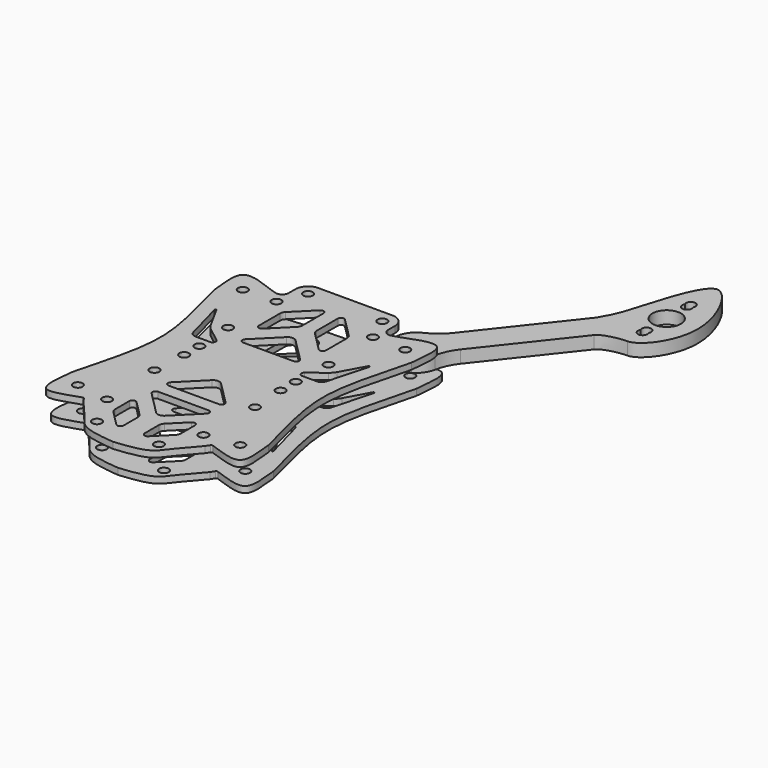
from build123d import *

# Parameters (mm, degrees)
F0_R     = 1.5
F1_DEPTH = 2
F2_R     = 1.5
F2_R_2   = 4.5
F3_DEPTH = 4
F5_START = -8
F4_R     = 1.5
F5_DEPTH = 2


with BuildPart() as f1:
    # F0 (on Top) → F1 (new body)
    with BuildSketch(Plane.XY):
        with BuildLine():
            Line((-18.3375635981, 31.6484452923), (-20.2031719051, 32.2218290431))
            add(Edge.make_bspline(
                [(-20.2031719051, 32.2218290431), (-23.587653786, 33.4649229243), (-33.8342020332, 38.0349181958), (-31.3543078417, 27.1598680228), (-31.2000553163, 23.5576178706)],
                knots=[0, 0, 0, 0, 0.5, 1, 1, 1, 1], degree=3))
            add(Edge.make_bspline(
                [(-31.2000553163, 23.5576178706), (-28.3736046302, 12.3604227018), (-23.0296225912, -4.7315553567), (-28.3736046302, -21.8235334151), (-31.2000553163, -33.020728584)],
                knots=[0, 0, 0, 0, 0.5, 1, 1, 1, 1], degree=3))
            add(Edge.make_bspline(
                [(-31.2000553163, -33.020728584), (-31.5236495663, -37.2076907408), (-33.4017812436, -47.0918338202), (-24.4280401499, -43.0389873741), (-20.6060443876, -41.8286181711)],
                knots=[0, 0, 0, 0, 0.5050655509, 1, 1, 1, 1], degree=3))
            Line((-20.6060443876, -41.8286181711), (-20.5803608331, -41.8194585175))
            ThreePointArc((-20.5803608331, -41.8194585175), (-20.2490943869, -41.8178274529), (-19.9895147498, -42.023639335))
            Line((-19.9895147498, -42.023639335), (-19.2511072473, -43.1941983527))
            add(Edge.make_bspline(
                [(-19.2511072473, -43.1941983527), (-17.3005706476, -45.3147992864), (-13.734975541, -49.537223912), (-10.2660770178, -54.6031397518), (-3.7194709349, -55.2509907064), (0, -55.6397614479)],
                knots=[0, 0, 0, 0, 0.3439625189, 0.625548145, 1, 1, 1, 1], degree=3))
            add(Edge.make_bspline(
                [(19.2511072473, -43.1941983527), (17.1900322363, -45.4409226451), (13.7763694298, -49.4899938476), (10.2513818536, -54.6199068055), (3.7194709349, -55.2509907064), (0, -55.6397614479)],
                knots=[0, 0, 0, 0, 0.3439625189, 0.625548145, 1, 1, 1, 1], degree=3))
            Line((19.2511072473, -43.1941983527), (19.9895147498, -42.023639335))
            ThreePointArc((19.9895147498, -42.023639335), (20.2490943869, -41.8178274529), (20.5803608331, -41.8194585175))
            Line((20.5803608331, -41.8194585175), (20.6060443876, -41.8286181711))
            add(Edge.make_bspline(
                [(31.2000553163, -33.020728584), (31.5241738424, -37.2110513509), (33.3984468888, -47.0857192502), (24.4340716378, -43.0477440686), (20.6060443876, -41.8286181711)],
                knots=[0, 0, 0, 0, 0.5050655509, 1, 1, 1, 1], degree=3))
            add(Edge.make_bspline(
                [(31.2000553163, 23.5576178706), (28.3736046302, 12.3604227018), (23.0296225912, -4.7315553567), (28.3736046302, -21.8235334151), (31.2000553163, -33.020728584)],
                knots=[0, 0, 0, 0, 0.5, 1, 1, 1, 1], degree=3))
            add(Edge.make_bspline(
                [(20.2031719051, 32.2218290431), (23.587653786, 33.4649229243), (33.8342020332, 38.0349181958), (31.3543078417, 27.1598680228), (31.2000553163, 23.5576178706)],
                knots=[0, 0, 0, 0, 0.5, 1, 1, 1, 1], degree=3))
            Line((20.2031719051, 32.2218290431), (18.3375635981, 31.6484452923))
            ThreePointArc((18.3375635981, 31.6484452923), (16.5615403238, 31.9515997489), (15.75, 33.5601903115))
            Line((15.75, 33.5601903115), (15.75, 36.2800180018))
            ThreePointArc((15.75, 36.2800180018), (14.5784271247, 39.1084451265), (11.75, 40.2800180018))
            Line((11.75, 40.2800180018), (0, 40.2800180018))
            Line((0, 40.2800180018), (-11.75, 40.2800180018))
            ThreePointArc((-11.75, 40.2800180018), (-14.5784271247, 39.1084451265), (-15.75, 36.2800180018))
            Line((-15.75, 36.2800180018), (-15.75, 33.5601903115))
            ThreePointArc((-15.75, 33.5601903115), (-16.5615403238, 31.9515997489), (-18.3375635981, 31.6484452923))
        make_face()
        with Locations((-25.7016136107, -37.3528341702)):
            Circle(F0_R, mode=Mode.SUBTRACT)
        with Locations((-9.8013905808, -49.6397614479)):
            Circle(F0_R, mode=Mode.SUBTRACT)
        with Locations((-15.25, -38.8460222539)):
            Circle(F0_R, mode=Mode.SUBTRACT)
        with BuildLine():
            ThreePointArc((-10.4, -36.1025408883), (-9.7826834324, -35.1786613557), (-8.6928932188, -35.3954341071))
            Line((-8.6928932188, -35.3954341071), (-3.9147186258, -40.1736087001))
            ThreePointArc((-3.9147186258, -40.1736087001), (-3.4811731231, -40.8224553978), (-3.3289321881, -41.5878222625))
            Line((-3.3289321881, -41.5878222625), (-3.3289321881, -47.2255478855))
            ThreePointArc((-3.3289321881, -47.2255478855), (-3.9462487558, -48.149427418), (-5.0360389693, -47.9326546667))
            Line((-5.0360389693, -47.9326546667), (-9.8142135624, -43.1544800737))
            ThreePointArc((-9.8142135624, -43.1544800737), (-10.247759065, -42.505633376), (-10.4, -41.7402665113))
            Line((-10.4, -41.7402665113), (-10.4, -36.1025408883))
        make_face(mode=Mode.SUBTRACT)
        with Locations((-15.898, -19.2865553567)):
            Circle(F0_R, mode=Mode.SUBTRACT)
        with Locations((-15.25, -8.3460222539)):
            Circle(F0_R, mode=Mode.SUBTRACT)
        with Locations((9.8013905808, -49.6397614479)):
            Circle(F0_R, mode=Mode.SUBTRACT)
        with BuildLine():
            Line((3.9147186258, -40.1736087001), (8.6928932188, -35.3954341071))
            ThreePointArc((8.6928932188, -35.3954341071), (9.7826834324, -35.1786613557), (10.4, -36.1025408883))
            Line((10.4, -36.1025408883), (10.4, -41.7402665113))
            ThreePointArc((10.4, -41.7402665113), (10.247759065, -42.505633376), (9.8142135624, -43.1544800737))
            Line((9.8142135624, -43.1544800737), (5.0360389693, -47.9326546667))
            ThreePointArc((5.0360389693, -47.9326546667), (3.9462487558, -48.149427418), (3.3289321881, -47.2255478855))
            Line((3.3289321881, -47.2255478855), (3.3289321881, -41.5878222625))
            ThreePointArc((3.3289321881, -41.5878222625), (3.4811731231, -40.8224553978), (3.9147186258, -40.1736087001))
        make_face(mode=Mode.SUBTRACT)
        with BuildLine():
            Line((-7.9857864376, -27.752749883), (0, -27.752749883))
            Line((0, -27.752749883), (7.9857864376, -27.752749883))
            ThreePointArc((7.9857864376, -27.752749883), (8.9096659701, -28.3700664506), (8.6928932188, -29.4598566642))
            Line((8.6928932188, -29.4598566642), (1.4142135624, -36.7385363206))
            ThreePointArc((1.4142135624, -36.7385363206), (0, -37.3243227583), (-1.4142135624, -36.7385363206))
            Line((-1.4142135624, -36.7385363206), (-8.6928932188, -29.4598566642))
            ThreePointArc((-8.6928932188, -29.4598566642), (-8.9096659701, -28.3700664506), (-7.9857864376, -27.752749883))
        make_face(mode=Mode.SUBTRACT)
        with Locations((15.25, -38.8460222539)):
            Circle(F0_R, mode=Mode.SUBTRACT)
        with Locations((25.7016136107, -37.3528341702)):
            Circle(F0_R, mode=Mode.SUBTRACT)
        with BuildLine():
            Line((7.9857864376, -23.5960222539), (0, -23.5960222539))
            Line((0, -23.5960222539), (-7.9857864376, -23.5960222539))
            ThreePointArc((-7.9857864376, -23.5960222539), (-8.9096659701, -22.9787056862), (-8.6928932188, -21.8889154727))
            Line((-8.6928932188, -21.8889154727), (-1.4142135624, -14.6102358162))
            ThreePointArc((-1.4142135624, -14.6102358162), (0, -14.0244493786), (1.4142135624, -14.6102358162))
            Line((1.4142135624, -14.6102358162), (8.6928932188, -21.8889154727))
            ThreePointArc((8.6928932188, -21.8889154727), (8.9096659701, -22.9787056862), (7.9857864376, -23.5960222539))
        make_face(mode=Mode.SUBTRACT)
        with Locations((15.898, -19.2865553567)):
            Circle(F0_R, mode=Mode.SUBTRACT)
        with Locations((15.25, -8.3460222539)):
            Circle(F0_R, mode=Mode.SUBTRACT)
        with BuildLine():
            ThreePointArc((-13.9443706064, 2.8309352999), (-13.6076066332, 1.7163427022), (-14.5542998026, 1.0384793859))
            Line((-14.5542998026, 1.0384793859), (-19.1284531279, 1.0384793859))
            ThreePointArc((-19.1284531279, 1.0384793859), (-20.3441756356, 1.4503928693), (-21.0591256503, 2.5164606016))
            Line((-21.0591256503, 2.5164606016), (-24.4749915331, 15.1499492776))
            ThreePointArc((-24.4749915331, 15.1499492776), (-24.327285987, 15.4470069327), (-24.0147040959, 15.3358640511))
            Line((-24.0147040959, 15.3358640511), (-19.9682088279, 7.9931160539))
            ThreePointArc((-19.9682088279, 7.9931160539), (-19.3833896778, 7.1500353535), (-18.6387873707, 6.4440849942))
            Line((-18.6387873707, 6.4440849942), (-13.9443706064, 2.8309352999))
        make_face(mode=Mode.SUBTRACT)
        with Locations((-15.25, -2.3460222539)):
            Circle(F0_R, mode=Mode.SUBTRACT)
        with Locations((-15.898, 9.8234446433)):
            Circle(F0_R, mode=Mode.SUBTRACT)
        with Locations((-25.7016136107, 27.8897234569)):
            Circle(F0_R, mode=Mode.SUBTRACT)
        with Locations((-15.25, 28.1539777461)):
            Circle(F0_R, mode=Mode.SUBTRACT)
        with BuildLine():
            Line((-2.2476087324, 30.5143016633), (-2.2476087324, 22.1581229493))
            ThreePointArc((-2.2476087324, 22.1581229493), (-2.3998496674, 21.3927560845), (-2.8333951701, 20.7439093869))
            Line((-2.8333951701, 20.7439093869), (-8.8994949366, 14.6778096204))
            ThreePointArc((-8.8994949366, 14.6778096204), (-9.9892851502, 14.461036869), (-10.6066017178, 15.3849164015))
            Line((-10.6066017178, 15.3849164015), (-10.6066017178, 23.7410951155))
            ThreePointArc((-10.6066017178, 23.7410951155), (-10.4543607828, 24.5064619803), (-10.0208152802, 25.1553086779))
            Line((-10.0208152802, 25.1553086779), (-3.9547155136, 31.2214084445))
            ThreePointArc((-3.9547155136, 31.2214084445), (-2.8649253001, 31.4381811958), (-2.2476087324, 30.5143016633))
        make_face(mode=Mode.SUBTRACT)
        with Locations((-11.75, 36.2800180018)):
            Circle(F0_R, mode=Mode.SUBTRACT)
        with Locations((15.25, -2.3460222539)):
            Circle(F0_R, mode=Mode.SUBTRACT)
        with BuildLine():
            Line((7.9814822674, 5.8881554157), (-7.9814822674, 5.8881554157))
            ThreePointArc((-7.9814822674, 5.8881554157), (-8.9053617999, 6.5054719833), (-8.6885890486, 7.5952621968))
            Line((-8.6885890486, 7.5952621968), (-1.4142135624, 14.869637683))
            ThreePointArc((-1.4142135624, 14.869637683), (0, 15.4554241207), (1.4142135624, 14.869637683))
            Line((1.4142135624, 14.869637683), (8.6885890486, 7.5952621968))
            ThreePointArc((8.6885890486, 7.5952621968), (8.9053617999, 6.5054719833), (7.9814822674, 5.8881554157))
        make_face(mode=Mode.SUBTRACT)
        with Locations((15.898, 9.8234446433)):
            Circle(F0_R, mode=Mode.SUBTRACT)
        with BuildLine():
            ThreePointArc((18.6387873707, 6.4440849942), (19.3833896778, 7.1500353535), (19.9682088279, 7.9931160539))
            Line((19.9682088279, 7.9931160539), (24.0146508596, 15.335767449))
            ThreePointArc((24.0146508596, 15.335767449), (24.3272342116, 15.4469097405), (24.4749374744, 15.1498496337))
            Line((24.4749374744, 15.1498496337), (21.0589210791, 2.5164362672))
            ThreePointArc((21.0589210791, 2.5164362672), (20.3439676359, 1.4503852077), (19.1282551365, 1.0384793859))
            Line((19.1282551365, 1.0384793859), (14.5542998026, 1.0384793859))
            ThreePointArc((14.5542998026, 1.0384793859), (13.6076066332, 1.7163427022), (13.9443706064, 2.8309352999))
            Line((13.9443706064, 2.8309352999), (18.6387873707, 6.4440849942))
        make_face(mode=Mode.SUBTRACT)
        with BuildLine():
            ThreePointArc((2.8333951701, 20.7439093869), (2.3998496674, 21.3927560845), (2.2476087324, 22.1581229493))
            Line((2.2476087324, 22.1581229493), (2.2476087324, 30.5143016633))
            ThreePointArc((2.2476087324, 30.5143016633), (2.8649253001, 31.4381811958), (3.9547155136, 31.2214084445))
            Line((3.9547155136, 31.2214084445), (10.0208152802, 25.1553086779))
            ThreePointArc((10.0208152802, 25.1553086779), (10.4543607828, 24.5064619803), (10.6066017178, 23.7410951155))
            Line((10.6066017178, 23.7410951155), (10.6066017178, 15.3849164015))
            ThreePointArc((10.6066017178, 15.3849164015), (9.9892851502, 14.461036869), (8.8994949366, 14.6778096204))
            Line((8.8994949366, 14.6778096204), (2.8333951701, 20.7439093869))
        make_face(mode=Mode.SUBTRACT)
        with Locations((15.25, 28.1539777461)):
            Circle(F0_R, mode=Mode.SUBTRACT)
        with Locations((11.75, 36.2800180018)):
            Circle(F0_R, mode=Mode.SUBTRACT)
        with Locations((25.7016136107, 27.8897234569)):
            Circle(F0_R, mode=Mode.SUBTRACT)
    extrude(amount=F1_DEPTH)


with BuildPart() as f3:
    # F2 (on Top) → F3 (new body)
    with BuildSketch(Plane.XY):
        with BuildLine():
            Line((49.3583674152, 73.8140501592), (26.8181013788, 45.2052509591))
            ThreePointArc((26.8181013788, 45.2052509591), (24.254270503, 42.6553954717), (21.1547401179, 40.7931647776))
            ThreePointArc((21.1547401179, 40.7931647776), (18.0437992431, 38.0628380969), (17.0190123837, 34.0525452394))
            ThreePointArc((17.0190123837, 34.0525452394), (16.9905388719, 32.6491592536), (16.7658418727, 31.2635856451))
            Line((16.7658418727, 31.2635856451), (14.2352850325, 20.504866441))
            ThreePointArc((14.2352850325, 20.504866441), (12.3636828047, 19.1083964616), (11.4439259975, 16.9619876659))
            Line((11.4439259975, 16.9619876659), (-1.6758141935, 6.2685870044))
            Line((-1.6758141935, 6.2685870044), (-1.6758288934, 1.7685870045))
            Line((-1.6758288934, 1.7685870045), (2.8241711066, 1.7685870045))
            Line((2.8241711066, 1.7685870045), (17.561505627, 12.1420764427))
            ThreePointArc((17.561505627, 12.1420764427), (19.4331078547, 13.5385464221), (20.3528646619, 15.6849552178))
            Line((20.3528646619, 15.6849552178), (23.3511959485, 24.6972793509))
            ThreePointArc((23.3511959485, 24.6972793509), (24.5139651744, 26.6077796469), (26.3933389363, 27.8202143531))
            ThreePointArc((26.3933389363, 27.8202143531), (29.3386172171, 29.8623916577), (30.8870933694, 33.0946314229))
            ThreePointArc((30.8870933694, 33.0946314229), (31.9736328696, 36.5131882016), (33.8407471455, 39.5760272139))
            Line((33.8407471455, 39.5760272139), (54.7988120821, 66.176648095))
            add(Edge.make_bspline(
                [(63.3241711066, 68.7685870045), (60.5388507247, 68.7347128987), (56.0119728863, 67.7164291158), (54.7988120821, 66.176648095)],
                knots=[0, 0, 0, 0, 8.9106618052, 8.9106618052, 8.9106618052, 8.9106618052], degree=3))
            add(Edge.make_bspline(
                [(63.3241711066, 104.2685870045), (66.5443018079, 104.3200790882), (78.8624263071, 83.7541625293), (67.0375078917, 68.7372982502), (63.3241711066, 68.7685870045)],
                knots=[0, 0, 0, 0, 0.5246243631, 1, 1, 1, 1], degree=3))
            add(Edge.make_bspline(
                [(49.3583674152, 73.8140501592), (51.6408905387, 77.6045843959), (53.3628848788, 81.7812789281), (59.3639425933, 104.1901484132), (63.3241711066, 104.2685870045)],
                knots=[0, 0, 0, 0, 0.4174355545, 1, 1, 1, 1], degree=3))
        make_face()
        with Locations((15.8983953297, 16.3234714419)):
            Circle(F2_R, mode=Mode.SUBTRACT)
        with Locations((24.0102799017, 34.40208564)):
            Circle(F2_R, mode=Mode.SUBTRACT)
        with BuildLine():
            ThreePointArc((62.0251330009, 75.5185870045), (63.3241711066, 77.7685870045), (64.6232092123, 75.5185870045))
            ThreePointArc((64.6232092123, 75.5185870045), (63.3241711066, 73.2685870045), (62.0251330009, 75.5185870045))
        make_face(mode=Mode.SUBTRACT)
        with Locations((63.3241711066, 84.2685870045)):
            Circle(F2_R_2, mode=Mode.SUBTRACT)
        with BuildLine():
            ThreePointArc((62.0251330009, 93.0185870045), (63.3241711066, 95.2685870045), (64.6232092123, 93.0185870045))
            ThreePointArc((64.6232092123, 93.0185870045), (63.3241711066, 90.7685870045), (62.0251330009, 93.0185870045))
        make_face(mode=Mode.SUBTRACT)
    extrude(amount=-F3_DEPTH)


with BuildPart() as f5:
    # F4 (on Top) → F5 (new body)
    with BuildSketch(Plane.XY.offset(F5_START)):
        with BuildLine():
            add(Edge.make_bspline(
                [(-22.5301694532, 37.1075806708), (-15.7957788182, 37.6926555083), (-2.3269975481, 38.8628051832), (11.1417837219, 37.6926555083), (17.876174357, 37.1075806708)],
                knots=[0, 0, 0, 0, 0.5, 1, 1, 1, 1], degree=3))
            add(Edge.make_bspline(
                [(-22.5301694532, 37.1075806708), (-25.9146513341, 38.350674552), (-36.1611995813, 42.9206698236), (-33.6813053898, 32.0456196505), (-33.5270528644, 28.4433694984)],
                knots=[0, 0, 0, 0, 0.5, 1, 1, 1, 1], degree=3))
            add(Edge.make_bspline(
                [(-33.5270528644, 28.4433694984), (-30.7006021783, 17.2461743295), (-25.3566201393, 0.1541962711), (-30.7006021783, -16.9377817874), (-33.5270528644, -28.1349769563)],
                knots=[0, 0, 0, 0, 0.5, 1, 1, 1, 1], degree=3))
            add(Edge.make_bspline(
                [(-33.5270528644, -28.1349769563), (-33.8506471144, -32.321939113), (-35.7287787917, -42.2060821925), (-26.755037698, -38.1532357463), (-22.9330419357, -36.9428665433)],
                knots=[0, 0, 0, 0, 0.5050655509, 1, 1, 1, 1], degree=3))
            Line((-22.9330419357, -36.9428665433), (-22.9073583812, -36.9337068897))
            ThreePointArc((-22.9073583812, -36.9337068897), (-22.576091935, -36.9320758252), (-22.3165122979, -37.1378877072))
            Line((-22.3165122979, -37.1378877072), (-21.5781047954, -38.3084467249))
            add(Edge.make_bspline(
                [(-21.5781047954, -38.3084467249), (-19.6275681957, -40.4290476586), (-16.0619730891, -44.6514722843), (-12.593074566, -49.7173881241), (-6.046468483, -50.3652390786), (-2.3269975481, -50.7540098202)],
                knots=[0, 0, 0, 0, 0.3439625189, 0.625548145, 1, 1, 1, 1], degree=3))
            add(Edge.make_bspline(
                [(16.9241096992, -38.3084467249), (14.8630346882, -40.5551710173), (11.4493718817, -44.6042422199), (7.9243843055, -49.7341551778), (1.3924733868, -50.3652390786), (-2.3269975481, -50.7540098202)],
                knots=[0, 0, 0, 0, 0.3439625189, 0.625548145, 1, 1, 1, 1], degree=3))
            Line((16.9241096992, -38.3084467249), (17.6625172017, -37.1378877072))
            ThreePointArc((17.6625172017, -37.1378877072), (17.9220968388, -36.9320758252), (18.253363285, -36.9337068897))
            Line((18.253363285, -36.9337068897), (18.2790468395, -36.9428665433))
            add(Edge.make_bspline(
                [(28.8730577682, -28.1349769563), (29.1971762943, -32.3252997231), (31.0714493407, -42.1999676224), (22.1070740897, -38.1619924409), (18.2790468395, -36.9428665433)],
                knots=[0, 0, 0, 0, 0.5050655509, 1, 1, 1, 1], degree=3))
            add(Edge.make_bspline(
                [(28.8730577682, 28.4433694984), (26.0466070821, 17.2461743295), (20.7026250431, 0.1541962711), (26.0466070821, -16.9377817874), (28.8730577682, -28.1349769563)],
                knots=[0, 0, 0, 0, 0.5, 1, 1, 1, 1], degree=3))
            add(Edge.make_bspline(
                [(17.876174357, 37.1075806708), (21.2606562379, 38.350674552), (31.507204485, 42.9206698236), (29.0273102936, 32.0456196505), (28.8730577682, 28.4433694984)],
                knots=[0, 0, 0, 0, 0.5, 1, 1, 1, 1], degree=3))
        make_face()
        with Locations((-28.0286111588, -32.4670825425)):
            Circle(F4_R, mode=Mode.SUBTRACT)
        with Locations((-12.1283881289, -44.7540098202)):
            Circle(F4_R, mode=Mode.SUBTRACT)
        with BuildLine():
            ThreePointArc((-12.7269975481, -31.2167892605), (-12.1096809805, -30.292909728), (-11.0198907669, -30.5096824793))
            Line((-11.0198907669, -30.5096824793), (-6.2417161739, -35.2878570724))
            ThreePointArc((-6.2417161739, -35.2878570724), (-5.8081706712, -35.93670377), (-5.6559297362, -36.7020706347))
            Line((-5.6559297362, -36.7020706347), (-5.6559297362, -42.3397962578))
            ThreePointArc((-5.6559297362, -42.3397962578), (-6.2732463039, -43.2636757903), (-7.3630365174, -43.046903039))
            Line((-7.3630365174, -43.046903039), (-12.1412111105, -38.2687284459))
            ThreePointArc((-12.1412111105, -38.2687284459), (-12.5747566131, -37.6198817483), (-12.7269975481, -36.8545148836))
            Line((-12.7269975481, -36.8545148836), (-12.7269975481, -31.2167892605))
        make_face(mode=Mode.SUBTRACT)
        with BuildLine():
            ThreePointArc((-26.341701644, -19.9132231368), (-26.6542835351, -20.0243660183), (-26.8019890812, -19.7273083632))
            Line((-26.8019890812, -19.7273083632), (-23.3861231984, -7.0938196872))
            ThreePointArc((-23.3861231984, -7.0938196872), (-22.6711731837, -6.0277519549), (-21.455450676, -5.6158384715))
            Line((-21.455450676, -5.6158384715), (-16.8812973507, -5.6158384715))
            ThreePointArc((-16.8812973507, -5.6158384715), (-15.9346041813, -6.2937017878), (-16.2713681545, -7.4082943855))
            Line((-16.2713681545, -7.4082943855), (-20.9657849188, -11.0214440799))
            ThreePointArc((-20.9657849188, -11.0214440799), (-21.7103872259, -11.7273944392), (-22.295206376, -12.5704751396))
            Line((-22.295206376, -12.5704751396), (-26.341701644, -19.9132231368))
        make_face(mode=Mode.SUBTRACT)
        with Locations((7.4743930327, -44.7540098202)):
            Circle(F4_R, mode=Mode.SUBTRACT)
        with BuildLine():
            Line((1.5877210777, -35.2878570724), (6.3658956707, -30.5096824793))
            ThreePointArc((6.3658956707, -30.5096824793), (7.4556858843, -30.292909728), (8.0730024519, -31.2167892605))
            Line((8.0730024519, -31.2167892605), (8.0730024519, -36.8545148836))
            ThreePointArc((8.0730024519, -36.8545148836), (7.9207615169, -37.6198817483), (7.4872160143, -38.2687284459))
            Line((7.4872160143, -38.2687284459), (2.7090414212, -43.046903039))
            ThreePointArc((2.7090414212, -43.046903039), (1.6192512077, -43.2636757903), (1.00193464, -42.3397962578))
            Line((1.00193464, -42.3397962578), (1.00193464, -36.7020706347))
            ThreePointArc((1.00193464, -36.7020706347), (1.154175575, -35.93670377), (1.5877210777, -35.2878570724))
        make_face(mode=Mode.SUBTRACT)
        with BuildLine():
            Line((-10.3127839857, -22.8669982553), (-2.3269975481, -22.8669982553))
            Line((-2.3269975481, -22.8669982553), (5.6587888895, -22.8669982553))
            ThreePointArc((5.6587888895, -22.8669982553), (6.582668422, -23.4843148229), (6.3658956707, -24.5741050365))
            Line((6.3658956707, -24.5741050365), (-0.9127839857, -31.8527846929))
            ThreePointArc((-0.9127839857, -31.8527846929), (-2.3269975481, -32.4385711305), (-3.7412111105, -31.8527846929))
            Line((-3.7412111105, -31.8527846929), (-11.0198907669, -24.5741050365))
            ThreePointArc((-11.0198907669, -24.5741050365), (-11.2366635182, -23.4843148229), (-10.3127839857, -22.8669982553))
        make_face(mode=Mode.SUBTRACT)
        with Locations((23.3746160626, -32.4670825425)):
            Circle(F4_R, mode=Mode.SUBTRACT)
        with BuildLine():
            Line((5.6587888895, -18.7102706261), (-2.3269975481, -18.7102706261))
            Line((-2.3269975481, -18.7102706261), (-10.3127839857, -18.7102706261))
            ThreePointArc((-10.3127839857, -18.7102706261), (-11.2366635182, -18.0929540585), (-11.0198907669, -17.0031638449))
            Line((-11.0198907669, -17.0031638449), (-3.7412111105, -9.7244841885))
            ThreePointArc((-3.7412111105, -9.7244841885), (-2.3269975481, -9.1386977509), (-0.9127839857, -9.7244841885))
            Line((-0.9127839857, -9.7244841885), (6.3658956707, -17.0031638449))
            ThreePointArc((6.3658956707, -17.0031638449), (6.582668422, -18.0929540585), (5.6587888895, -18.7102706261))
        make_face(mode=Mode.SUBTRACT)
        with BuildLine():
            Line((18.731923531, -7.0937953528), (22.1479399263, -19.7272087193))
            ThreePointArc((22.1479399263, -19.7272087193), (22.0002366635, -20.0242688261), (21.6876533115, -19.9131265346))
            Line((21.6876533115, -19.9131265346), (17.6412112798, -12.5704751396))
            ThreePointArc((17.6412112798, -12.5704751396), (17.0563921297, -11.7273944392), (16.3117898225, -11.0214440799))
            Line((16.3117898225, -11.0214440799), (11.6173730583, -7.4082943855))
            ThreePointArc((11.6173730583, -7.4082943855), (11.2806090851, -6.2937017878), (12.2273022545, -5.6158384715))
            Line((12.2273022545, -5.6158384715), (16.8012575883, -5.6158384715))
            ThreePointArc((16.8012575883, -5.6158384715), (18.0169700878, -6.0277442934), (18.731923531, -7.0937953528))
        make_face(mode=Mode.SUBTRACT)
        with BuildLine():
            ThreePointArc((-16.2713681545, 7.7166869277), (-15.9346041813, 6.6020943299), (-16.8812973507, 5.9242310136))
            Line((-16.8812973507, 5.9242310136), (-21.455450676, 5.9242310136))
            ThreePointArc((-21.455450676, 5.9242310136), (-22.6711731837, 6.336144497), (-23.3861231984, 7.4022122293))
            Line((-23.3861231984, 7.4022122293), (-26.8019890812, 20.0357009053))
            ThreePointArc((-26.8019890812, 20.0357009053), (-26.6542835351, 20.3327585604), (-26.341701644, 20.2216156789))
            Line((-26.341701644, 20.2216156789), (-22.295206376, 12.8788676817))
            ThreePointArc((-22.295206376, 12.8788676817), (-21.7103872259, 12.0357869813), (-20.9657849188, 11.329836622))
            Line((-20.9657849188, 11.329836622), (-16.2713681545, 7.7166869277))
        make_face(mode=Mode.SUBTRACT)
        with Locations((-28.0286111588, 32.7754750846)):
            Circle(F4_R, mode=Mode.SUBTRACT)
        with BuildLine():
            Line((-12.9335992659, 20.2706680293), (-12.9335992659, 28.6268467433))
            ThreePointArc((-12.9335992659, 28.6268467433), (-12.7813583309, 29.392213608), (-12.3478128283, 30.0410603057))
            Line((-12.3478128283, 30.0410603057), (-9.6959266241, 32.6929465098))
            ThreePointArc((-9.6959266241, 32.6929465098), (-6.4265559834, 33.3432647638), (-4.5746062805, 30.5716261663))
            Line((-4.5746062805, 30.5716261663), (-4.5746062805, 27.043874577))
            ThreePointArc((-4.5746062805, 27.043874577), (-4.7268472155, 26.2785077123), (-5.1603927182, 25.6296610147))
            Line((-5.1603927182, 25.6296610147), (-11.2264924847, 19.5635612481))
            ThreePointArc((-11.2264924847, 19.5635612481), (-12.3162826983, 19.3467884968), (-12.9335992659, 20.2706680293))
        make_face(mode=Mode.SUBTRACT)
        with BuildLine():
            Line((5.6544847193, 10.7739070434), (-10.3084798155, 10.7739070434))
            ThreePointArc((-10.3084798155, 10.7739070434), (-11.232359348, 11.391223611), (-11.0155865967, 12.4810138246))
            Line((-11.0155865967, 12.4810138246), (-3.7412111105, 19.7553893108))
            ThreePointArc((-3.7412111105, 19.7553893108), (-2.3269975481, 20.3411757484), (-0.9127839857, 19.7553893108))
            Line((-0.9127839857, 19.7553893108), (6.3615915005, 12.4810138246))
            ThreePointArc((6.3615915005, 12.4810138246), (6.5783642518, 11.391223611), (5.6544847193, 10.7739070434))
        make_face(mode=Mode.SUBTRACT)
        with BuildLine():
            ThreePointArc((16.3117898225, 11.329836622), (17.0563921297, 12.0357869813), (17.6412112798, 12.8788676817))
            Line((17.6412112798, 12.8788676817), (21.6876533115, 20.2215190768))
            ThreePointArc((21.6876533115, 20.2215190768), (22.0002366635, 20.3326613682), (22.1479399263, 20.0356012614))
            Line((22.1479399263, 20.0356012614), (18.731923531, 7.4021878949))
            ThreePointArc((18.731923531, 7.4021878949), (18.0169700878, 6.3361368355), (16.8012575883, 5.9242310136))
            Line((16.8012575883, 5.9242310136), (12.2273022545, 5.9242310136))
            ThreePointArc((12.2273022545, 5.9242310136), (11.2806090851, 6.6020943299), (11.6173730583, 7.7166869277))
            Line((11.6173730583, 7.7166869277), (16.3117898225, 11.329836622))
        make_face(mode=Mode.SUBTRACT)
        with BuildLine():
            ThreePointArc((7.6938177321, 30.0410603057), (8.1273632347, 29.392213608), (8.2796041697, 28.6268467433))
            Line((8.2796041697, 28.6268467433), (8.2796041697, 20.2706680293))
            ThreePointArc((8.2796041697, 20.2706680293), (7.6622876021, 19.3467884968), (6.5724973885, 19.5635612481))
            Line((6.5724973885, 19.5635612481), (0.5063976219, 25.6296610147))
            ThreePointArc((0.5063976219, 25.6296610147), (0.0728521193, 26.2785077123), (-0.0793888157, 27.043874577))
            Line((-0.0793888157, 27.043874577), (-0.0793888157, 30.5716261663))
            ThreePointArc((-0.0793888157, 30.5716261663), (1.7725608872, 33.3432647638), (5.0419315279, 32.6929465098))
            Line((5.0419315279, 32.6929465098), (7.6938177321, 30.0410603057))
        make_face(mode=Mode.SUBTRACT)
        with Locations((23.3746160626, 32.7754750846)):
            Circle(F4_R, mode=Mode.SUBTRACT)
    extrude(amount=-F5_DEPTH)


solid = Compound([f1.part, f3.part, f5.part])
